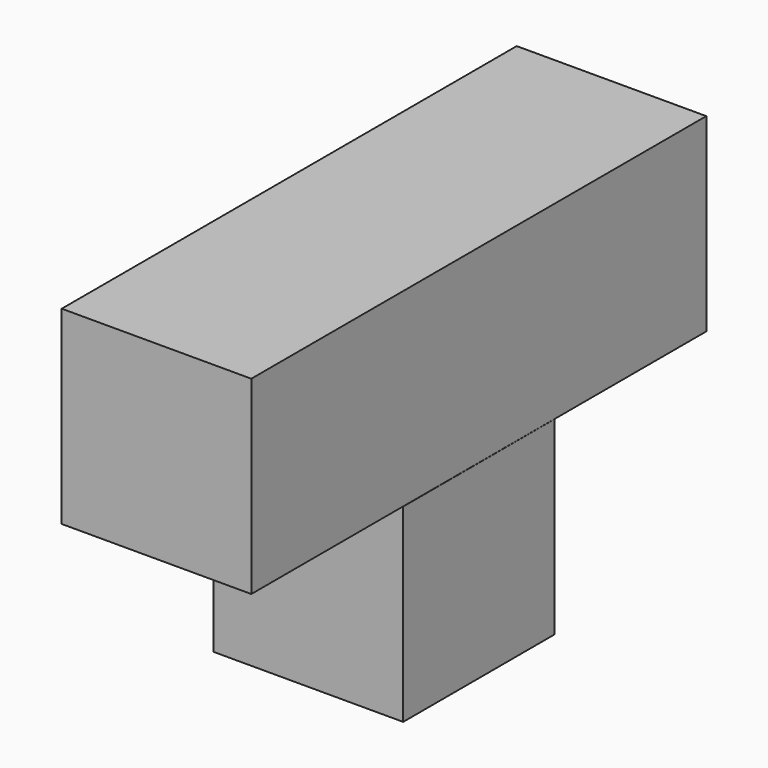
from build123d import *

# Parameters (mm, degrees)
F0_W          = 19.05
F0_H          = 19.05
F1_DEPTH      = 38.1
F1_DEPTH_BACK = 19.05
F3_DEPTH      = 12.134596
F3_DEPTH_BACK = 6.915404


with BuildPart() as f1:
    # F0 (on Front) → F1 (new body, two sides)
    with BuildSketch(Plane.XZ) as f1_sk:
        with Locations((-0.365345, 21.659589)):
            Rectangle(F0_W, F0_H)
    extrude(amount=F1_DEPTH)
    extrude(f1_sk.sketch, amount=-F1_DEPTH_BACK)

    # F2 (on Top) → F3 (join, two sides)
    with BuildSketch(Plane.XY) as f3_sk:
        Polygon((9.171309, 0), (-9.878691, 0), (-9.878691, -19.05), (9.183096, -19.05), align=None)
    extrude(amount=F3_DEPTH)
    extrude(f3_sk.sketch, amount=-F3_DEPTH_BACK)


solid = f1.part
